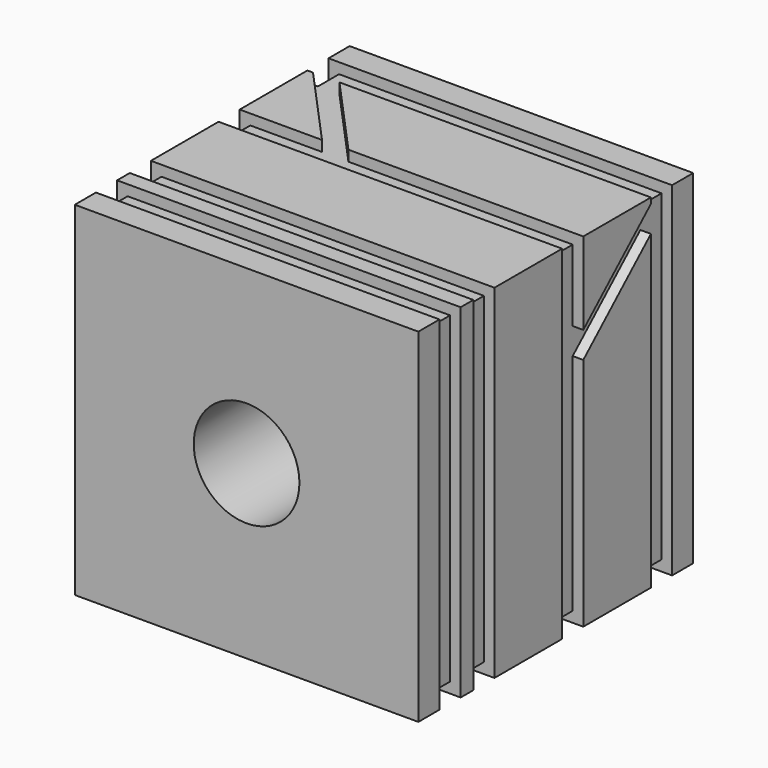
from build123d import *

# Parameters (mm, degrees)
F0_W      = 6.5
F0_H      = 6.5
F1_DEPTH  = 6.5
F2_R      = 1
F3_DEPTH  = 25
F4_W      = 0.5
F4_H      = 6.5
F5_DEPTH  = 0.2
F6_W      = 6.3
F6_H      = 0.5
F7_DEPTH  = 0.2
F8_W      = 0.5
F8_H      = 6.3
F9_DEPTH  = 0.2
F10_W     = 6.1
F10_H     = 0.5
F11_DEPTH = 0.2


with BuildPart() as f1:
    # F0 (on Front) → F1 (new body)
    with BuildSketch(Plane.XZ):
        with Locations((3.25, -3.25)):
            Rectangle(F0_W, F0_H)
    extrude(amount=F1_DEPTH)

    # F2 (on face) → F3 (cut)
    with BuildSketch(Plane.XZ.offset(6.5)):
        with Locations((3.25, -3.25)):
            Circle(F2_R)
    extrude(amount=-F3_DEPTH, mode=Mode.SUBTRACT)

    # F4 (on face) → F5 (cut)
    with BuildSketch(Plane.YZ.offset(6.5)):
        with Locations((-5.75, -3.25)):
            Rectangle(F4_W, F4_H)
        with Locations((-4.95, -3.25)):
            Rectangle(F4_W, F4_H)
        Polygon((-3.1, 0), (-3.1, -6.5), (-2.6, -6.5), (-2.6, -2.0569080953), (-1, -0.6072367541), (-1, -6.5), (-0.5, -6.5), (-0.5, 0), (-1, 0), (-1, -0.1072367541), (-2.6, -1.5569080953), (-2.6, 0), align=None)
    extrude(amount=-F5_DEPTH, mode=Mode.SUBTRACT)

    # F6 (on face) → F7 (cut)
    with BuildSketch(Plane.XY):
        with Locations((3.15, -5.75)):
            Rectangle(F6_W, F6_H)
        with Locations((3.15, -4.95)):
            Rectangle(F6_W, F6_H)
        Polygon((0, -2.6), (0, -3.1), (6.3, -3.1), (6.3, -2.6), (2.0569080953, -2.6), (0.6072367541, -1), (6.3, -1), (6.3, -0.5), (0, -0.5), (0, -1), (0.1072367541, -1), (1.5569080953, -2.6), align=None)
    extrude(amount=-F7_DEPTH, mode=Mode.SUBTRACT)

    # F8 (on face) → F9 (cut)
    with BuildSketch(Plane(origin=(0, 0, 0), x_dir=(0, -1, 0), z_dir=(-1, 0, 0))):
        with Locations((5.75, -3.35)):
            Rectangle(F8_W, F8_H)
        with Locations((4.95, -3.35)):
            Rectangle(F8_W, F8_H)
        Polygon((2.6, -6.5), (3.1, -6.5), (3.1, -0.2), (2.6, -0.2), (2.6, -4.3532891255), (1, -5.8029604666), (1, -0.2), (0.5, -0.2), (0.5, -6.5), (1, -6.5), (1, -6.3029604666), (2.6, -4.8532891255), align=None)
    extrude(amount=-F9_DEPTH, mode=Mode.SUBTRACT)

    # F10 (on face) → F11 (cut)
    with BuildSketch(Plane(origin=(0, 0, -6.5), x_dir=(1, 0, 0), z_dir=(0, 0, -1))):
        with Locations((3.25, 5.75)):
            Rectangle(F10_W, F10_H)
        with Locations((3.25, 4.95)):
            Rectangle(F10_W, F10_H)
        Polygon((6.3, 3.1), (0.2, 3.1), (0.2, 2.6), (4.4430919047, 2.6), (5.8927632459, 1), (0.2, 1), (0.2, 0.5), (6.3, 0.5), (6.3, 1), (6.3927632459, 1), (4.9430919047, 2.6), (6.3, 2.6), align=None)
    extrude(amount=-F11_DEPTH, mode=Mode.SUBTRACT)


solid = f1.part
